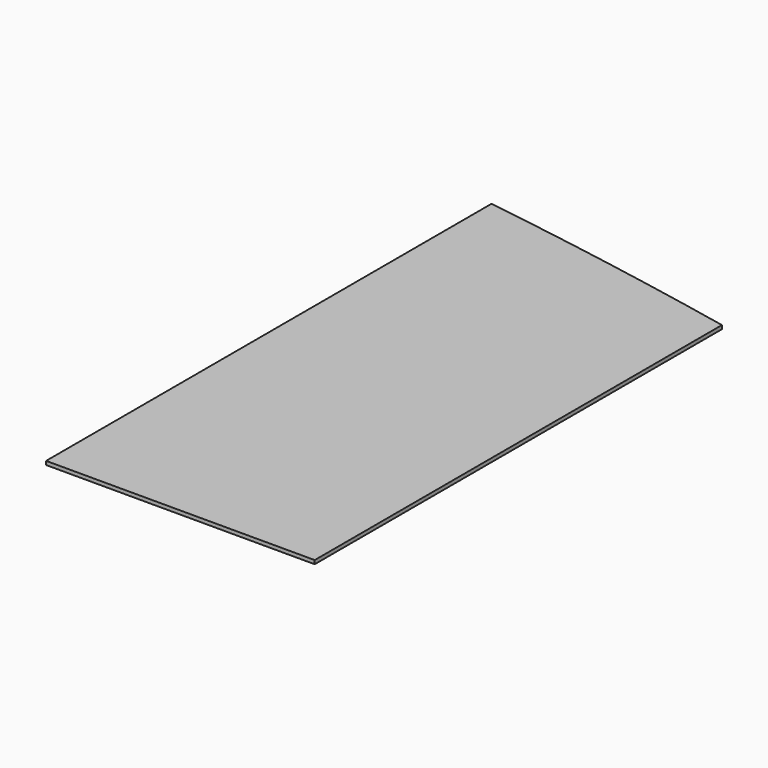
from build123d import *

# Parameters (mm, degrees)
F1_DEPTH = 25.4


with BuildPart() as f1:
    # F0 (on Top) → F1 (new body)
    with BuildSketch(Plane.XY):
        with BuildLine():
            Line((-954.357608, 2122.725924), (-954.357608, -1720.802076))
            Line((-954.357608, -1720.802076), (-27.257608, -1720.802076))
            Line((-27.257608, -1720.802076), (-27.257608, 1971.849924))
            ThreePointArc((-27.257608, 1971.849924), (-490.25316, 2050.694885), (-954.357608, 2122.725924))
        make_face()
        with BuildLine():
            Line((-27.257608, 1971.849924), (-27.257608, -1720.802076))
            Line((-27.257608, -1720.802076), (899.842392, -1720.802076))
            Line((899.842392, -1720.802076), (899.842392, 1792.779924))
            ThreePointArc((899.842392, 1792.779924), (436.95391, 1885.739801), (-27.257608, 1971.849924))
        make_face()
    extrude(amount=F1_DEPTH)


solid = f1.part
